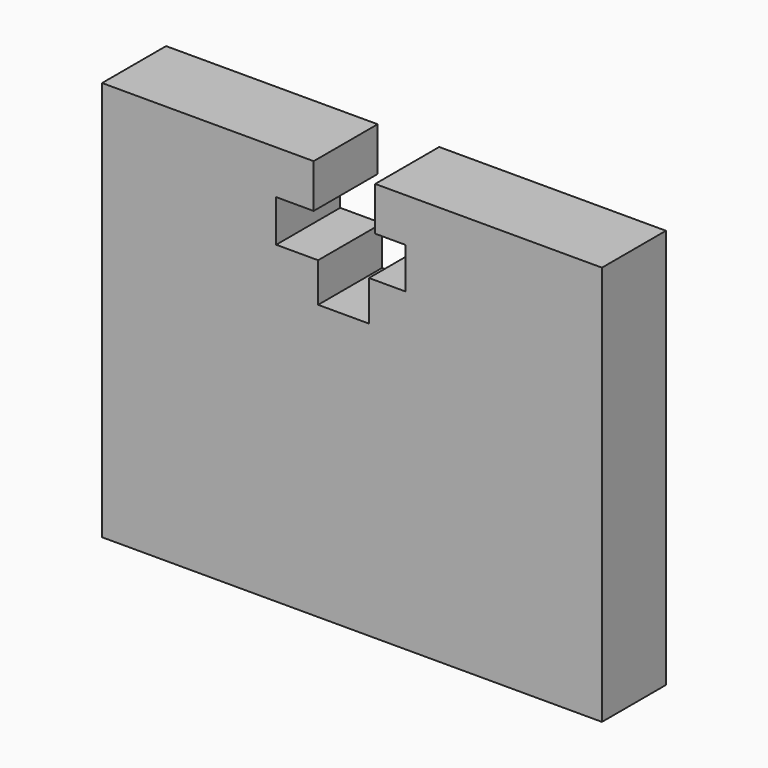
from build123d import *

# Parameters (mm, degrees)
F0_W     = 127
F0_H     = 101.6
F1_DEPTH = 20.32
F3_DEPTH = 25.4


with BuildPart() as f1:
    # F0 (on Front) → F1 (new body)
    with BuildSketch(Plane.XZ):
        Rectangle(F0_W, F0_H)
    extrude(amount=F1_DEPTH)

    # F2 (on face) → F3 (cut)
    with BuildSketch(Plane.XZ.offset(20.32)):
        Polygon((5.893087, 50.8), (-9.746261, 50.8), (-9.746261, 39.665014), (-19.265864, 39.665014), (-19.265864, 29.012125), (-8.612975, 29.012125), (-8.612975, 19.039206), (4.306488, 19.039206), (4.306488, 29.238781), (13.599434, 29.238781), (13.599434, 39.665014), (5.893087, 39.665014), align=None)
    extrude(amount=-F3_DEPTH, mode=Mode.SUBTRACT)


solid = f1.part
